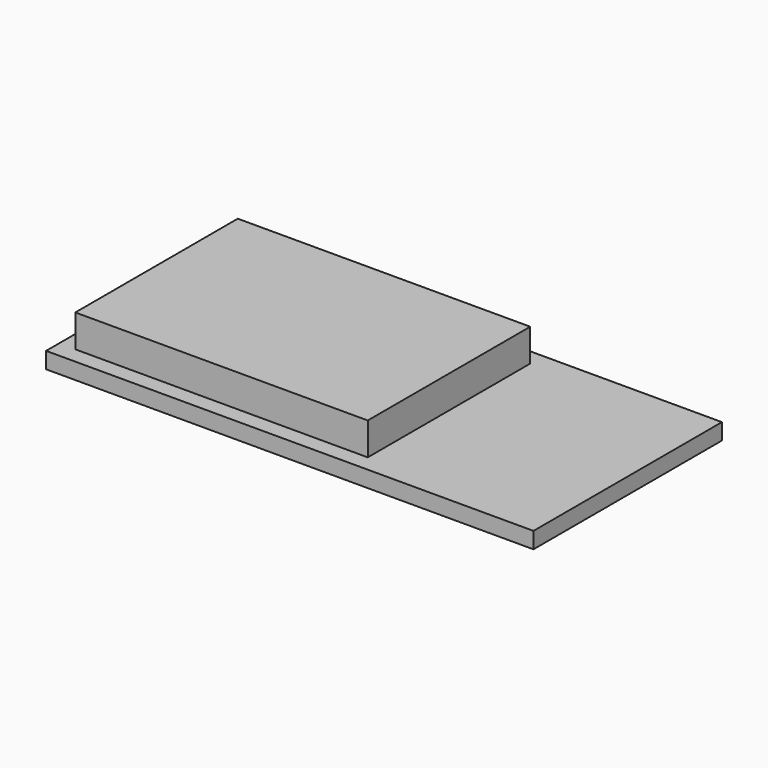
from build123d import *

# Parameters (mm, degrees)
SKETCH_W     = 30
SKETCH_H     = 14.5
PAD_DEPTH    = 1
SKETCH001_W  = 18
SKETCH001_H  = 12.5
PAD001_DEPTH = 2


with BuildPart() as part:
    # Sketch → Pad (new body)
    with BuildSketch(Plane.XY):
        Rectangle(SKETCH_W, SKETCH_H)
    extrude(amount=PAD_DEPTH)

    # Sketch001 (on Face6 of Pad) → Pad001 (join)
    with BuildSketch(Plane.XY.offset(1)):
        with Locations((-5, 0)):
            Rectangle(SKETCH001_W, SKETCH001_H)
    extrude(amount=PAD001_DEPTH)


solid = part.part
